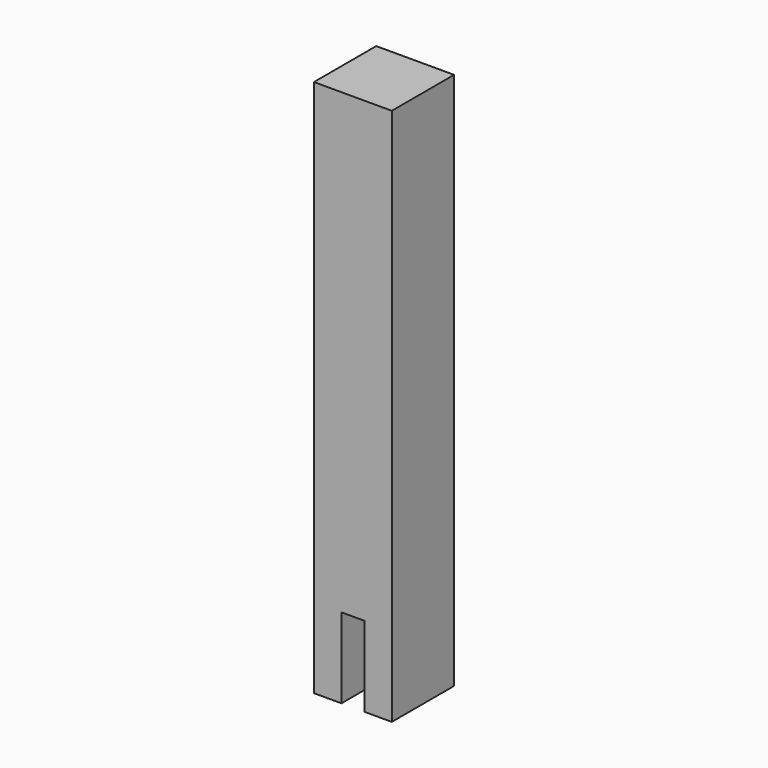
from build123d import *

# Parameters (mm, degrees)
SKETCH_W     = 34
SKETCH_H     = 34
PAD_DEPTH    = 235
SKETCH001_W  = 10
SKETCH001_H  = 34
POCKET_DEPTH = 35


with BuildPart() as part:
    # Sketch → Pad (new body)
    with BuildSketch(Plane.XY):
        Rectangle(SKETCH_W, SKETCH_H)
    extrude(amount=PAD_DEPTH)

    # Sketch001 → Pocket (cut)
    with BuildSketch(Plane.XY):
        Rectangle(SKETCH001_W, SKETCH001_H)
    extrude(amount=POCKET_DEPTH, mode=Mode.SUBTRACT)


solid = part.part
